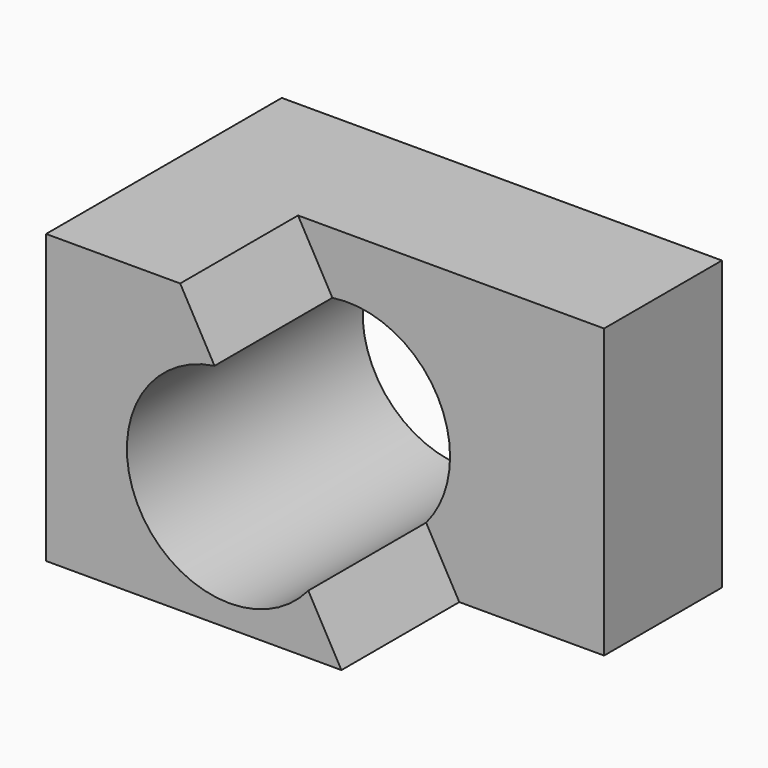
from build123d import *

# Parameters (mm, degrees)
F0_W     = 75.8960098028
F0_H     = 49.6515966952
F1_DEPTH = 50.8
F3_DEPTH = 25.4
F4_R     = 17.7026194938
F5_DEPTH = 50.8


with BuildPart() as f1:
    # F0 (on Front) → F1 (new body)
    with BuildSketch(Plane.XZ):
        with Locations((37.9480049014, 24.8257983476)):
            Rectangle(F0_W, F0_H)
    extrude(amount=F1_DEPTH)

    # F2 (on face) → F3 (cut)
    with BuildSketch(Plane.XZ.offset(50.8)):
        Polygon((75.8960098028, 49.6515966952), (23.1234580278, 49.6515966952), (50.928350538, 0), (75.8960098028, 0), align=None)
    extrude(amount=-F3_DEPTH, mode=Mode.SUBTRACT)

    # F4 (on face) → F5 (cut)
    with BuildSketch(Plane.XZ.offset(50.8)):
        with Locations((31.635157764, 21.5629786253)):
            Circle(F4_R)
    extrude(amount=-F5_DEPTH, mode=Mode.SUBTRACT)


solid = f1.part
